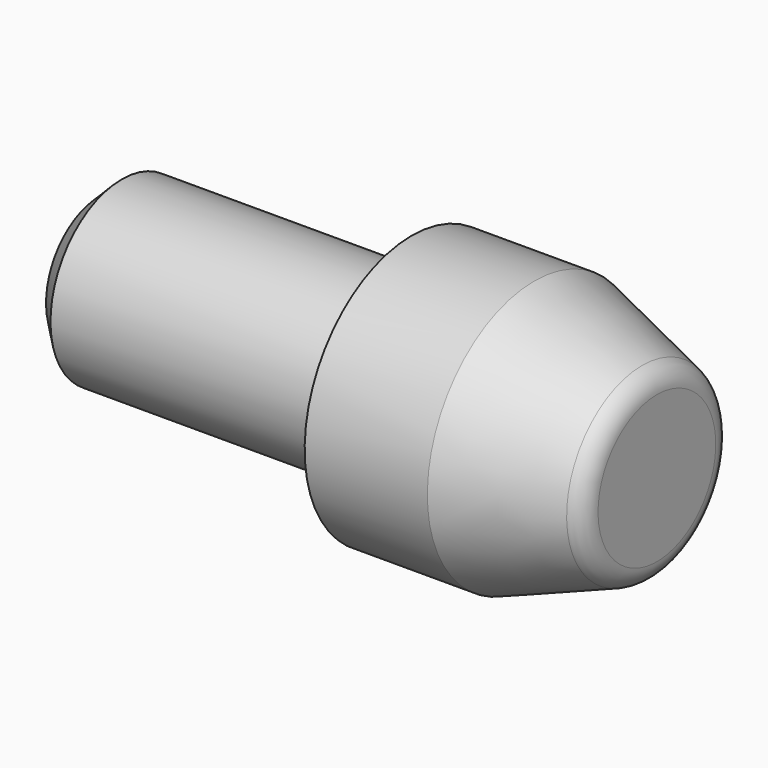
from build123d import *

# Parameters (mm, degrees)
F2_SIZE = 1
F3_R    = 1


with BuildPart() as f1:
    # F0 (on Front) → F1 (revolve)
    with BuildSketch(Plane.XZ):
        Polygon((0, 4), (0, 0), (25, 0), (25, 4), (19.505045, 6), (14, 6), (14, 4), align=None)
    revolve(axis=Axis((10.323764, 0, 0), (1, 0, 0)))

    # F2
    f2_edges = [f1.edges().sort_by_distance(p)[0] for p in [
        (0, 0, -4),
    ]]
    chamfer(f2_edges, length=F2_SIZE)

    # F3
    f3_edges = [f1.edges().sort_by_distance(p)[0] for p in [
        (25, 0, -4),
    ]]
    fillet(f3_edges, radius=F3_R)


solid = f1.part
